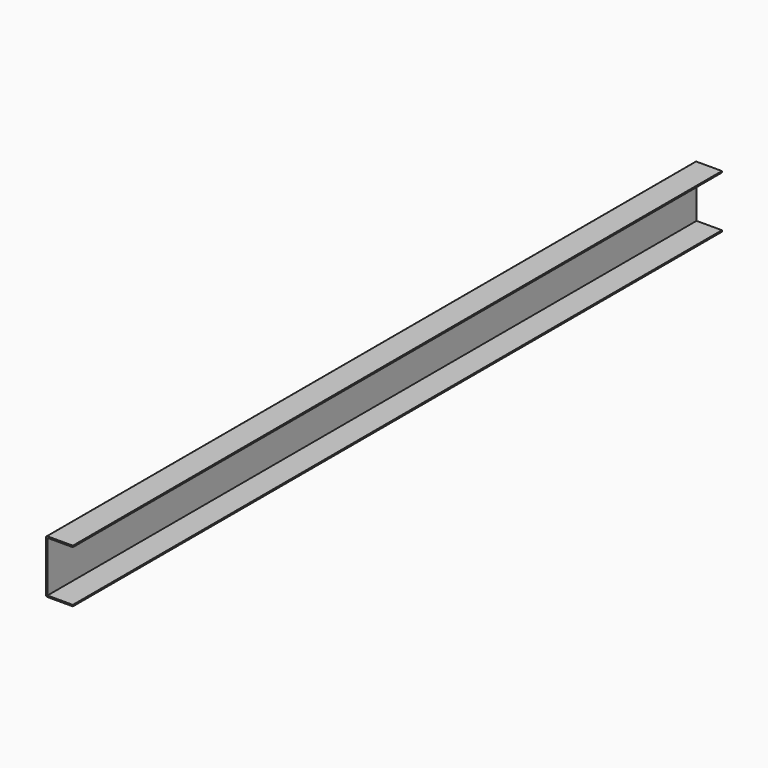
from build123d import *

# Parameters (mm, degrees)
F1_DEPTH = 1828.8


with BuildPart() as f1:
    # F0 (on Front) → F1 (new body)
    with BuildSketch(Plane.XZ):
        with BuildLine():
            Line((30.1625, 57.15), (30.1625, 60.325))
            Line((30.1625, 60.325), (-26.9875, 60.325))
            ThreePointArc((-26.9875, 60.325), (-29.232564, 59.395064), (-30.1625, 57.15))
            Line((-30.1625, 57.15), (-30.1625, -57.15))
            ThreePointArc((-30.1625, -57.15), (-29.232564, -59.395064), (-26.9875, -60.325))
            Line((-26.9875, -60.325), (30.1625, -60.325))
            Line((30.1625, -60.325), (30.1625, -57.15))
            Line((30.1625, -57.15), (-26.9875, -57.15))
            Line((-26.9875, -57.15), (-26.9875, 57.15))
            Line((-26.9875, 57.15), (30.1625, 57.15))
        make_face()
    extrude(amount=F1_DEPTH)


solid = f1.part
